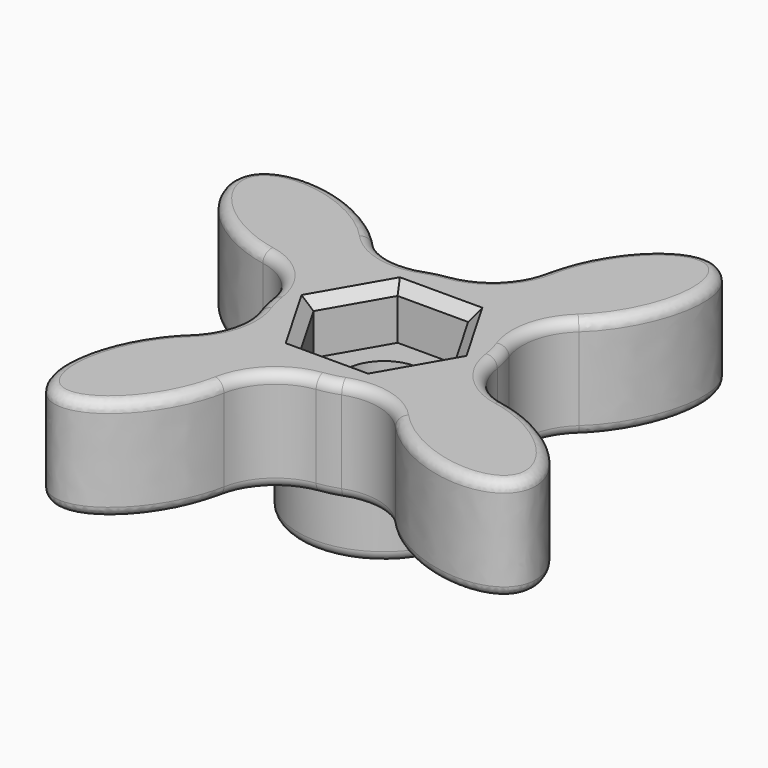
from build123d import *

# Parameters (mm, degrees)
F1_DEPTH = 12.7
F2_R     = 10.5379891047
F3_DEPTH = 7.62
F4_R     = 4.7879
F5_DEPTH = 7.62
F6_R     = 4.7879
F7_DEPTH = 6.35
F8_R     = 1.27
F9_SIZE  = 1.27


with BuildPart() as f1:
    # F0 (on Top) → F1 (new body)
    with BuildSketch(Plane.XY):
        with BuildLine():
            ThreePointArc((-18.7120737215, 4.7456288971), (-14.6067012062, 2.5044846055), (-12.5839723809, -1.7127869442))
            ThreePointArc((-12.5839723809, -1.7127869442), (-12.3299570309, -3.0433796371), (-11.9356634248, -4.3393477172))
            ThreePointArc((-11.9356634248, -4.3393477172), (-11.6964234629, -8.7581579744), (-13.9531635033, -12.5647633176))
            add(Edge.make_bspline(
                [(-13.9531635033, -12.5647633176), (-26.4622462338, -24.0104507427), (-17.2728800872, -30.145631172), (-8.0835139405, -36.2808116013), (-4.7456288971, -18.7120737215)],
                knots=[0.971656135, 0.971656135, 0.971656135, 3.0649101236, 3.0649101236, 5.1581641121, 5.1581641121, 5.1581641121], degree=2, weights=[1, 0.5004940354, 1, 0.5004940354, 1]))
            ThreePointArc((-4.7456288971, -18.7120737215), (-2.5044846055, -14.6067012062), (1.7127869442, -12.5839723809))
            ThreePointArc((1.7127869442, -12.5839723809), (3.0433796371, -12.3299570309), (4.3393477172, -11.9356634248))
            ThreePointArc((4.3393477172, -11.9356634248), (8.7581579744, -11.6964234629), (12.5647633176, -13.9531635033))
            add(Edge.make_bspline(
                [(12.5647633176, -13.9531635033), (24.0104507427, -26.4622462338), (30.145631172, -17.2728800872), (36.2808116013, -8.0835139405), (18.7120737215, -4.7456288971)],
                knots=[0.971656135, 0.971656135, 0.971656135, 3.0649101236, 3.0649101236, 5.1581641121, 5.1581641121, 5.1581641121], degree=2, weights=[1, 0.5004940354, 1, 0.5004940354, 1]))
            ThreePointArc((18.7120737215, -4.7456288971), (14.6067012062, -2.5044846055), (12.5839723809, 1.7127869442))
            ThreePointArc((12.5839723809, 1.7127869442), (12.3299570309, 3.0433796371), (11.9356634248, 4.3393477172))
            ThreePointArc((11.9356634248, 4.3393477172), (11.6964234629, 8.7581579744), (13.9531635033, 12.5647633176))
            add(Edge.make_bspline(
                [(13.9531635033, 12.5647633176), (26.4622462338, 24.0104507427), (17.2728800872, 30.145631172), (8.0835139405, 36.2808116013), (4.7456288971, 18.7120737215)],
                knots=[0.971656135, 0.971656135, 0.971656135, 3.0649101236, 3.0649101236, 5.1581641121, 5.1581641121, 5.1581641121], degree=2, weights=[1, 0.5004940354, 1, 0.5004940354, 1]))
            ThreePointArc((4.7456288971, 18.7120737215), (2.5044846055, 14.6067012062), (-1.7127869442, 12.5839723809))
            ThreePointArc((-1.7127869442, 12.5839723809), (-3.0433796371, 12.3299570309), (-4.3393477172, 11.9356634248))
            ThreePointArc((-4.3393477172, 11.9356634248), (-8.7581579744, 11.6964234629), (-12.5647633176, 13.9531635033))
            add(Edge.make_bspline(
                [(-12.5647633176, 13.9531635033), (-24.0104507427, 26.4622462338), (-30.145631172, 17.2728800872), (-36.2808116013, 8.0835139405), (-18.7120737215, 4.7456288971)],
                knots=[0.971656135, 0.971656135, 0.971656135, 3.0649101236, 3.0649101236, 5.1581641121, 5.1581641121, 5.1581641121], degree=2, weights=[1, 0.5004940354, 1, 0.5004940354, 1]))
        make_face()
        Polygon((4.3434, 7.5229894776), (8.6868, 0), (4.3434, -7.5229894776), (-4.3434, -7.5229894776), (-8.6868, 0), (-4.3434, 7.5229894776), align=None, mode=Mode.SUBTRACT)
    extrude(amount=F1_DEPTH)

    # F2 (on face) → F3 (join)
    with BuildSketch(Plane(origin=(0, 0, 0), x_dir=(1, 0, 0), z_dir=(0, 0, -1))):
        Circle(F2_R)
    extrude(amount=F3_DEPTH)

    # F4 (on face) → F5 (cut)
    with BuildSketch(Plane(origin=(0, 0, -7.62), x_dir=(1, 0, 0), z_dir=(0, 0, -1))):
        Circle(F4_R)
    extrude(amount=-F5_DEPTH, mode=Mode.SUBTRACT)

    # F6 (on face) → F7 (join)
    with BuildSketch(Plane.XY):
        Polygon((4.3434, 7.5229894776), (-4.3434, 7.5229894776), (-8.6868, 0), (-4.3434, -7.5229894776), (4.3434, -7.5229894776), (8.6868, 0), align=None)
        Circle(F6_R, mode=Mode.SUBTRACT)
    extrude(amount=F7_DEPTH)

    # F8
    f8_edges = [f1.edges().sort_by_distance(p)[0] for p in [
        (17.503739, 29.978453, 12.7),
        (11.696423, 8.758158, 12.7),
        (14.606701, -2.504485, 12.7),
        (-17.503739, -29.978453, 0),
        (-10.537989, 0, -7.62),
        (-4.7879, 0, -7.62),
    ]]
    fillet(f8_edges, radius=F8_R)

    # F9
    f9_edges = [f1.edges().sort_by_distance(p)[0] for p in [
        (0, -7.522989, 12.7),
        (6.5151, -3.761495, 12.7),
        (6.5151, 3.761495, 12.7),
        (0, 7.522989, 12.7),
        (-6.5151, 3.761495, 12.7),
        (-6.5151, -3.761495, 12.7),
    ]]
    chamfer(f9_edges, length=F9_SIZE)


solid = f1.part
